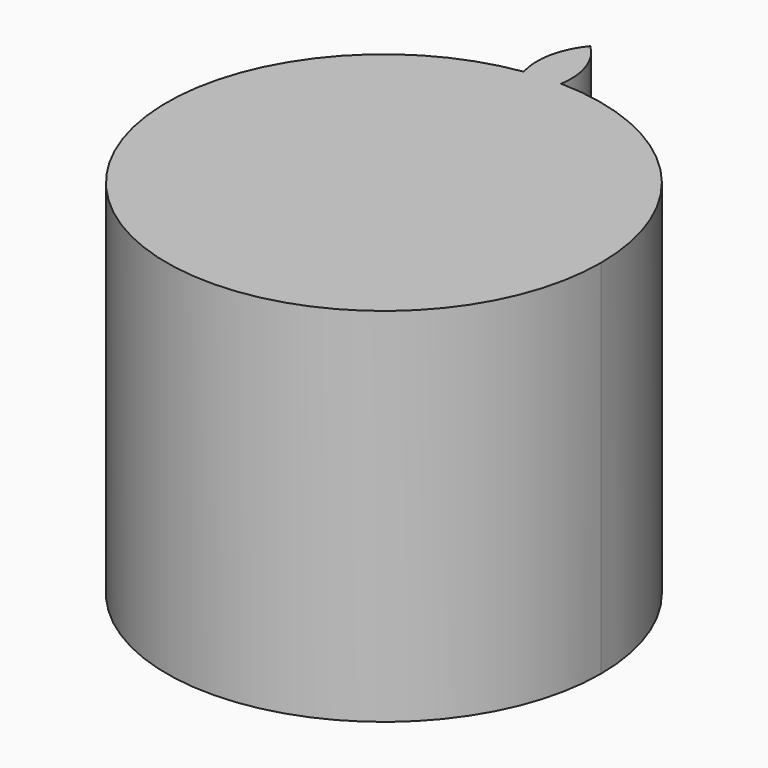
from build123d import *

# Parameters (mm, degrees)
F1_DEPTH = 25


with BuildPart() as f1:
    # F0 (on Top) → F1 (new body)
    with BuildSketch(Plane.XY):
        with BuildLine():
            ThreePointArc((-2.208417, 14.836539), (-0.981047, 14.967884), (0.252967, 14.997867))
            ThreePointArc((0.252967, 14.997867), (0.037675, 17.394766), (-1.272425, 19.413457))
            ThreePointArc((-1.272425, 19.413457), (-2.307826, 17.241034), (-2.208417, 14.836539))
        make_face()
        with BuildLine():
            ThreePointArc((-2.208417, 14.836539), (-9.794737, -11.360596), (15, 0))
            ThreePointArc((15, 0), (10.695665, 10.516784), (0.252967, 14.997867))
            ThreePointArc((0.252967, 14.997867), (-0.981047, 14.967884), (-2.208417, 14.836539))
        make_face()
    extrude(amount=F1_DEPTH)


solid = f1.part
